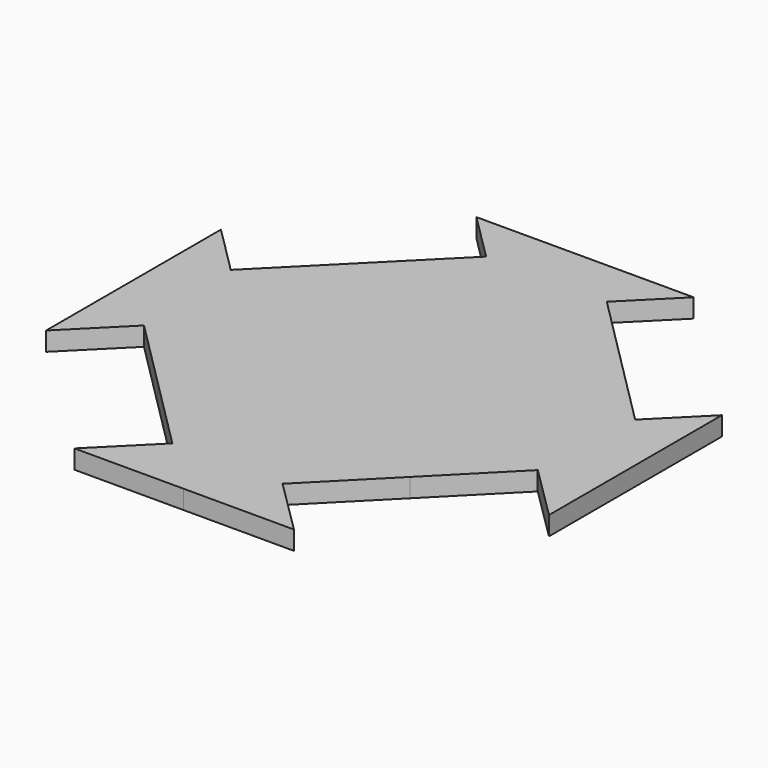
from build123d import *

# Parameters (mm, degrees)
F1_DEPTH = 3


with BuildPart() as f1:
    # F0 (on Top) → F1 (new body)
    with BuildSketch(Plane.XY):
        Polygon((40, 0), (40, 17.372583), (32.312379, 9.684962), (20.998671, 20.998671), (9.684962, 32.312379), (17.378833, 40.00625), (0, 40), (-17.246451, 39.993798), (-9.657337, 32.424378), (-20.956336, 21.09598), (-32.255336, 9.767582), (-40, 17.492147), (-40, 0.006085), (-40, -17.372583), (-31.323566, -8.696149), (-20.009857, -20.009857), (-8.696149, -31.323566), (-17.369941, -39.997358), (-0.006085, -40), (17.647882, -40.002685), (8.819452, -31.257433), (20.079485, -19.890303), (31.339518, -8.523172), (40, -17.102058), align=None)
    extrude(amount=F1_DEPTH)


solid = f1.part
